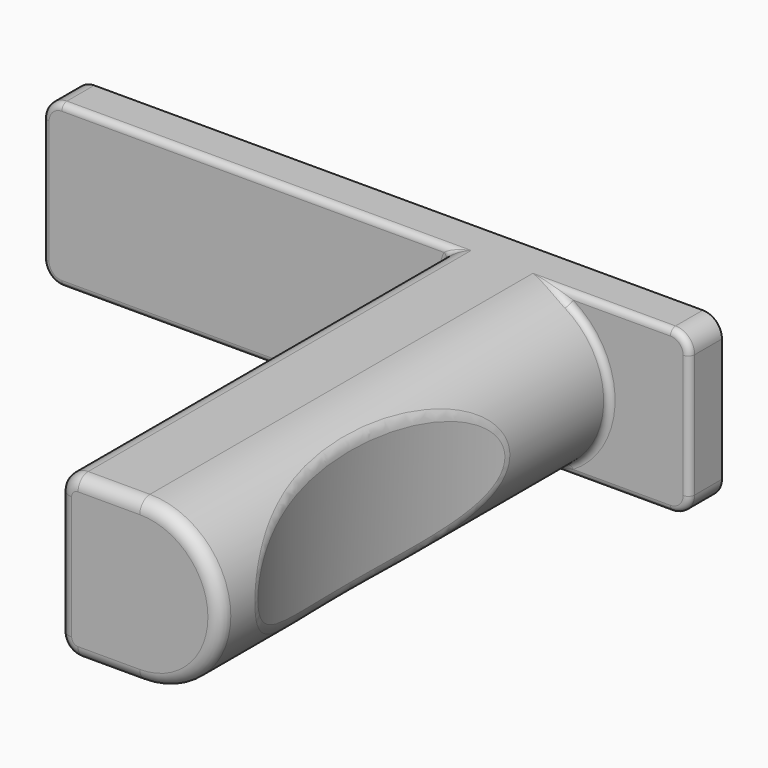
from build123d import *

# Parameters (mm, degrees)
CYLINDER002_R     = 3.25
CYLINDER002_DEPTH = 3
CYLINDER003_R     = 3.25
CYLINDER003_DEPTH = 3
CYLINDER004_R     = 3.25
CYLINDER004_DEPTH = 3
CYLINDER005_R     = 3.25
CYLINDER005_DEPTH = 3
CYLINDER006_R     = 3.25
CYLINDER006_DEPTH = 3
CYLINDER007_R     = 62.23
CYLINDER007_DEPTH = 50
CYLINDER001_R     = 3.25
CYLINDER001_DEPTH = 3
CYLINDER_R        = 12.7
CYLINDER_DEPTH    = 76.2
CUBE001_W         = 12.7
CUBE001_H         = 76.2
CUBE001_DEPTH     = 25.4
CUBE_W            = 101.6
CUBE_H            = 6.35
CUBE_DEPTH        = 25.4
FILLET_R          = 3
FILLET001_R       = 1
FILLET002_R       = 1
FILLET003_R       = 1
FILLET004_R       = 1
FILLET005_R       = 2
FILLET006_R       = 2


with BuildPart() as cylinder002:
    # cylinder002 → cylinder002 (new body)
    with BuildSketch(Plane(origin=(50.8, 6.35, 6.35), x_dir=(1, 0, 0), z_dir=(0, -1, 0))):
        Circle(CYLINDER002_R)
    extrude(amount=CYLINDER002_DEPTH)


with BuildPart() as cylinder003:
    # cylinder003 → cylinder003 (new body)
    with BuildSketch(Plane(origin=(88.9, 6.35, 6.35), x_dir=(1, 0, 0), z_dir=(0, -1, 0))):
        Circle(CYLINDER003_R)
    extrude(amount=CYLINDER003_DEPTH)


with BuildPart() as cylinder004:
    # cylinder004 → cylinder004 (new body)
    with BuildSketch(Plane(origin=(12.7, 6.35, 19.05), x_dir=(1, 0, 0), z_dir=(0, -1, 0))):
        Circle(CYLINDER004_R)
    extrude(amount=CYLINDER004_DEPTH)


with BuildPart() as cylinder005:
    # cylinder005 → cylinder005 (new body)
    with BuildSketch(Plane(origin=(50.8, 6.35, 19.05), x_dir=(1, 0, 0), z_dir=(0, -1, 0))):
        Circle(CYLINDER005_R)
    extrude(amount=CYLINDER005_DEPTH)


with BuildPart() as cylinder006:
    # cylinder006 → cylinder006 (new body)
    with BuildSketch(Plane(origin=(88.9, 6.35, 19.05), x_dir=(1, 0, 0), z_dir=(0, -1, 0))):
        Circle(CYLINDER006_R)
    extrude(amount=CYLINDER006_DEPTH)


with BuildPart() as cylinder007:
    # cylinder007 → cylinder007 (new body)
    with BuildSketch(Plane(origin=(146.05, -44.45, 0), x_dir=(1, 0, 0), z_dir=(0, 0, 1))):
        Circle(CYLINDER007_R)
    extrude(amount=CYLINDER007_DEPTH)


with BuildPart() as union001:
    # cylinder001 → cylinder001 (new body)
    with BuildSketch(Plane(origin=(12.7, 6.35, 6.35), x_dir=(1, 0, 0), z_dir=(0, -1, 0))):
        Circle(CYLINDER001_R)
    extrude(amount=CYLINDER001_DEPTH)

    # union001: union cylinder002, cylinder003, cylinder004, cylinder005, cylinder006, cylinder007
    add(cylinder002.part)
    add(cylinder003.part)
    add(cylinder004.part)
    add(cylinder005.part)
    add(cylinder006.part)
    add(cylinder007.part)


with BuildPart() as cylinder:
    # cylinder → cylinder (new body)
    with BuildSketch(Plane(origin=(76.2, 0, 12.7), x_dir=(1, 0, 0), z_dir=(0, -1, 0))):
        Circle(CYLINDER_R)
    extrude(amount=CYLINDER_DEPTH)


with BuildPart() as cube001:
    # cube001 → cube001 (new body)
    with BuildSketch(Plane(origin=(76.2, 0, 0), x_dir=(-1, 0, 0), z_dir=(0, 0, 1))):
        with Locations((6.35, 38.1)):
            Rectangle(CUBE001_W, CUBE001_H)
    extrude(amount=CUBE001_DEPTH)


with BuildPart() as fillet006:
    # cube → cube (new body)
    with BuildSketch(Plane.XY):
        with Locations((50.8, 3.175)):
            Rectangle(CUBE_W, CUBE_H)
    extrude(amount=CUBE_DEPTH)

    # union: union cylinder, cube001
    add(cylinder.part)
    add(cube001.part)

    # difference: cut union001
    add(union001.part, mode=Mode.SUBTRACT)

    # Fillet
    fillet_edges = [fillet006.edges().sort_by_distance(p)[0] for p in [
        (0, 3.175, 25.4),
        (0, 3.175, 0),
        (101.6, 3.175, 25.4),
        (101.6, 3.175, 0),
        (63.5, -38.1, 0),
        (63.5, -38.1, 25.4),
    ]]
    fillet(fillet_edges, radius=FILLET_R)

    # Fillet001
    fillet001_edges = [fillet006.edges().sort_by_distance(p)[0] for p in [
        (0, 0, 12.7),
        (33.25, 0, 0),
        (0.87868, 0, 0.87868),
        (0.87868, 0, 24.52132),
        (33.25, 0, 25.4),
    ]]
    fillet(fillet001_edges, radius=FILLET001_R)

    # Fillet002
    fillet002_edges = [fillet006.edges().sort_by_distance(p)[0] for p in [
        (87.4, 0, 0),
        (87.4, 0, 25.4),
        (100.72132, 0, 24.52132),
        (101.6, 0, 12.7),
        (100.72132, 0, 0.87868),
    ]]
    fillet(fillet002_edges, radius=FILLET002_R)

    # Fillet003
    fillet003_edges = [fillet006.edges().sort_by_distance(p)[0] for p in [
        (86.783557, 0, 5.680149),
        (86.783557, 0, 19.719851),
    ]]
    fillet(fillet003_edges, radius=FILLET003_R)

    # Fillet004
    fillet004_edges = [fillet006.edges().sort_by_distance(p)[0] for p in [
        (63.5, 0, 17.55),
        (63.5, 0, 7.85),
    ]]
    fillet(fillet004_edges, radius=FILLET004_R)

    # Fillet005
    fillet005_edges = [fillet006.edges().sort_by_distance(p)[0] for p in [
        (64.37868, -76.2, 0.87868),
        (71.35, -76.2, 0),
        (85.180256, -76.2, 3.719744),
        (63.5, -76.2, 7.85),
        (85.180256, -76.2, 21.680256),
        (63.5, -76.2, 17.55),
        (64.37868, -76.2, 24.52132),
        (71.35, -76.2, 25.4),
    ]]
    fillet(fillet005_edges, radius=FILLET005_R)

    # Fillet006
    fillet006_edges = [fillet006.edges().sort_by_distance(p)[0] for p in [
        (83.82, -44.45, 2.54),
        (83.82, -44.45, 22.86),
    ]]
    fillet(fillet006_edges, radius=FILLET006_R)


solid = fillet006.part
